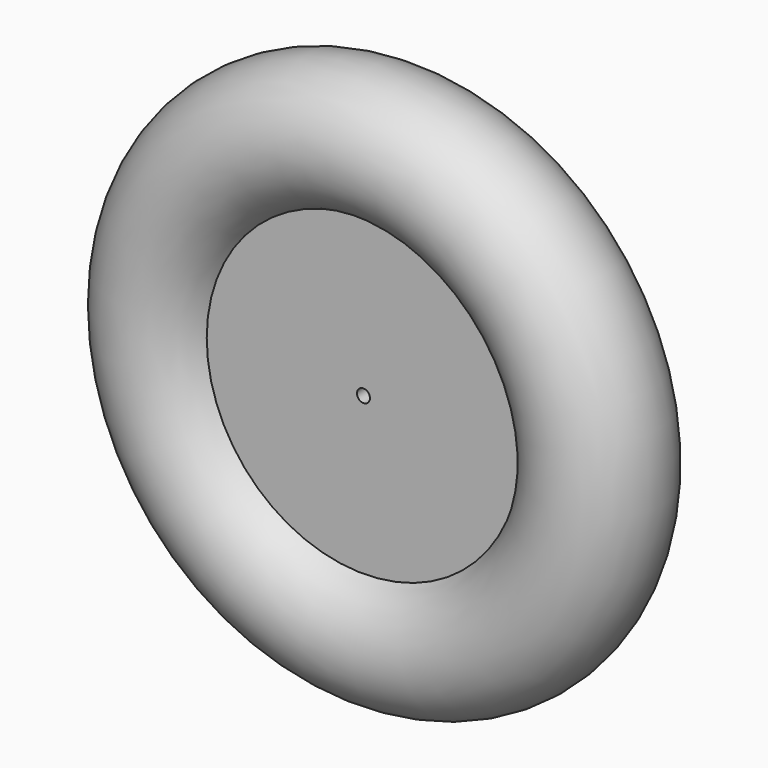
from build123d import *

# Parameters (mm, degrees)
SKETCH002_R = 3.961642


with BuildPart() as part:
    # Sketch002 → Revolution (revolve)
    with BuildSketch(Plane.XY):
        with BuildLine():
            Line((-0.49654, 2.36587), (-0.49654, -1.504493))
            Line((-0.49654, -1.504493), (-12.00346, -1.504493))
            ThreePointArc((-11.961669, 2.36587), (-21.325254, 0.53157), (-12.00346, -1.504493))
            Line((-0.49654, 2.36587), (-11.961669, 2.36587))
        make_face()
        with Locations((-16.453489, 0.478965)):
            Circle(SKETCH002_R, mode=Mode.SUBTRACT)
    revolve(axis=Axis((0, 0, 0), (0, 1, 0)))


solid = part.part
